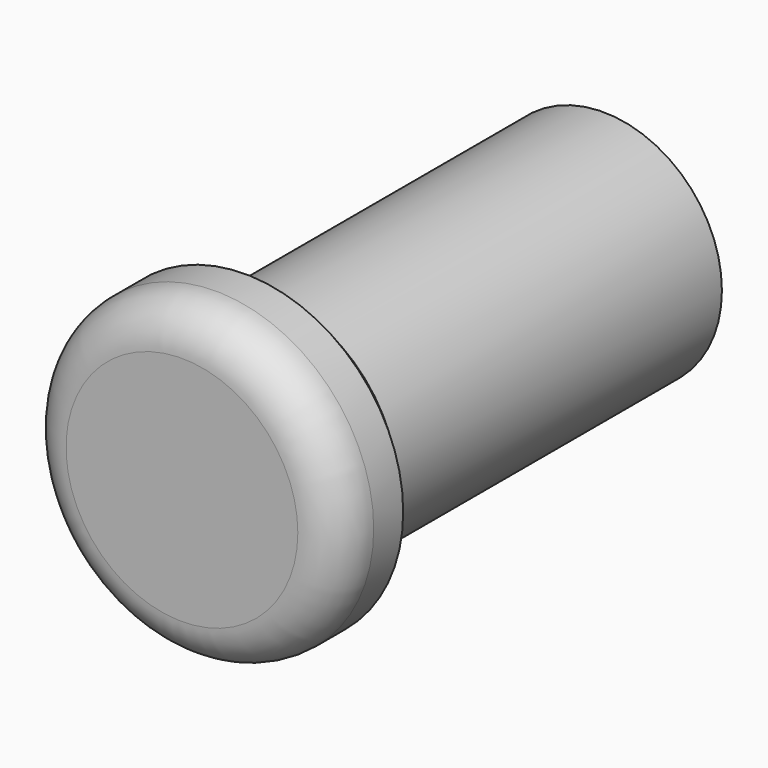
from build123d import *

# Parameters (mm, degrees)
F0_R     = 22.5
F0_R_2   = 30
F1_DEPTH = 20
F2_DEPTH = 100
F3_SIZE  = 5
F4_R     = 8


with BuildPart() as f1:
    # F0 (on Front) → F1 (new body)
    with BuildSketch(Plane.XZ):
        Circle(F0_R)
        Circle(F0_R_2)
        Circle(F0_R, mode=Mode.SUBTRACT)
    extrude(amount=-F1_DEPTH)

    # F0 (on Front) → F2 (join)
    with BuildSketch(Plane.XZ):
        Circle(F0_R)
    extrude(amount=-F2_DEPTH)

    # F3
    f3_edges = [f1.edges().sort_by_distance(p)[0] for p in [
        (-30, 20, 0),
    ]]
    chamfer(f3_edges, length=F3_SIZE)

    # F4
    f4_edges = [f1.edges().sort_by_distance(p)[0] for p in [
        (-30, 0, 0),
    ]]
    fillet(f4_edges, radius=F4_R)


solid = f1.part
